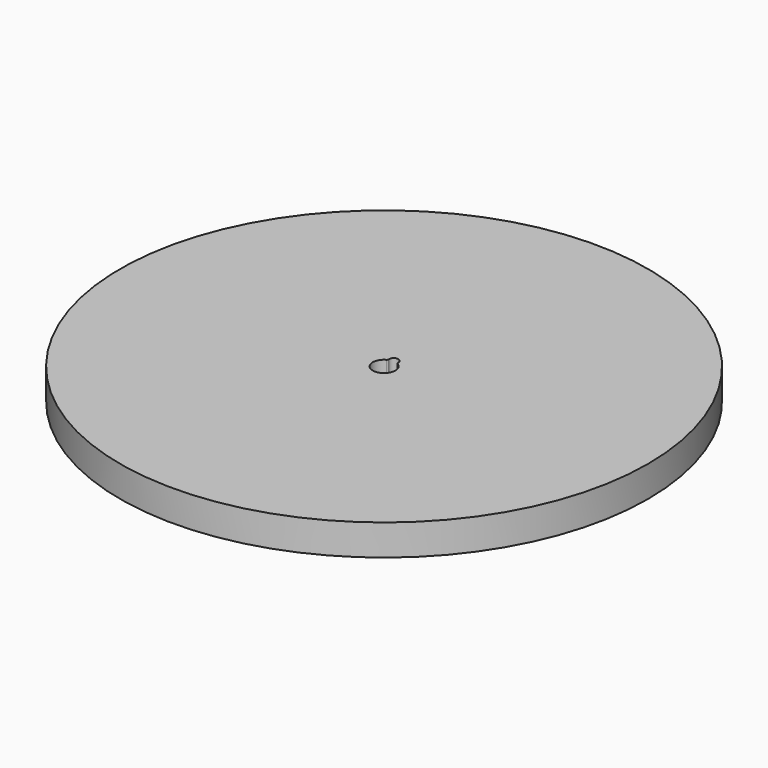
from build123d import *

# Parameters (mm, degrees)
SKETCH_R                    = 175
SKETCH_R_2                  = 7.5
PAD_DEPTH                   = 20.5
SKETCH009_R                 = 3
POCKET_DEPTH                = 5
SKETCH009_POLARPATTERN_2_R  = 3
POCKET_POLARPATTERN_2_DEPTH = 5
POLARPATTERN001_COUNT       = 8
POCKET001_DEPTH             = 20.501
FILLET001_R                 = 1


with BuildPart() as part:
    # Sketch → Pad (new body)
    with BuildSketch(Plane.XY):
        Circle(SKETCH_R)
        Circle(SKETCH_R_2, mode=Mode.SUBTRACT)
    extrude(amount=PAD_DEPTH)

    # Sketch009 → Pocket (cut)
    with BuildSketch(Plane.XY):
        with Locations((25.420601, 160.499355)):
            Circle(SKETCH009_R)
    pocket = extrude(amount=POCKET_DEPTH, mode=Mode.SUBTRACT)

    # Sketch009 PolarPattern 2 → Pocket PolarPattern 2 (cut)
    with BuildSketch(Plane(origin=(0, 0, 0), x_dir=(0.987688, -0.156434, 0), z_dir=(0, 0, 1))):
        with Locations((25.420601, 160.499355)):
            Circle(SKETCH009_POLARPATTERN_2_R)
    pocket_polarpattern_2 = extrude(amount=POCKET_POLARPATTERN_2_DEPTH, mode=Mode.SUBTRACT)

    # PolarPattern001: Pocket, Pocket PolarPattern 2 ×8 about axis
    polarpattern001_axis = Axis((0, 0, 0), (0, 0, 1))
    for i in range(1, POLARPATTERN001_COUNT):
        add(pocket.rotate(polarpattern001_axis, i * 360 / POLARPATTERN001_COUNT), mode=Mode.SUBTRACT)
        add(pocket_polarpattern_2.rotate(polarpattern001_axis, i * 360 / POLARPATTERN001_COUNT), mode=Mode.SUBTRACT)

    # Sketch010 → Pocket001 (cut, through all)
    with BuildSketch(Plane.XY):
        with BuildLine():
            ThreePointArc((-3.1, 0), (0, -3.1), (3.1, 0))
            Line((3.1, 0), (3.1, 8))
            ThreePointArc((3.1, 8), (0, 11.1), (-3.1, 8))
            Line((-3.1, 8), (-3.1, 0))
        make_face()
    extrude(amount=POCKET001_DEPTH, mode=Mode.SUBTRACT)

    # Fillet001
    fillet001_edges = [part.edges().sort_by_distance(p)[0] for p in [
        (-3.1, 6.829348, 10.25),
        (3.1, 6.829348, 10.25),
    ]]
    fillet(fillet001_edges, radius=FILLET001_R)


solid = part.part
